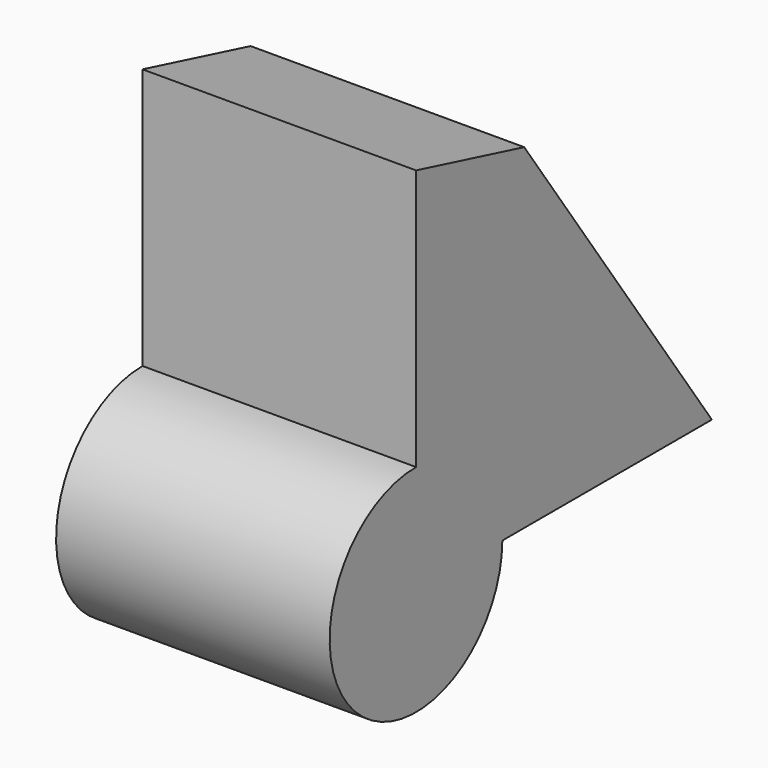
from build123d import *

# Parameters (mm, degrees)
F1_DEPTH = 18.5
F2_R     = 7.296834
F3_DEPTH = 18.5


with BuildPart() as f1:
    # F0 (on Right) → F1 (new body)
    with BuildSketch(Plane.YZ):
        Polygon((-39.545815, 57.106879), (-48.684973, 59.437899), (-48.684973, 34.437899), (-23.684973, 34.437899), align=None)
    extrude(amount=F1_DEPTH)

    # F2 (on Right) → F3 (join)
    with BuildSketch(Plane.YZ):
        with Locations((-48.691116, 34.481682)):
            Circle(F2_R)
    extrude(amount=F3_DEPTH)


solid = f1.part
